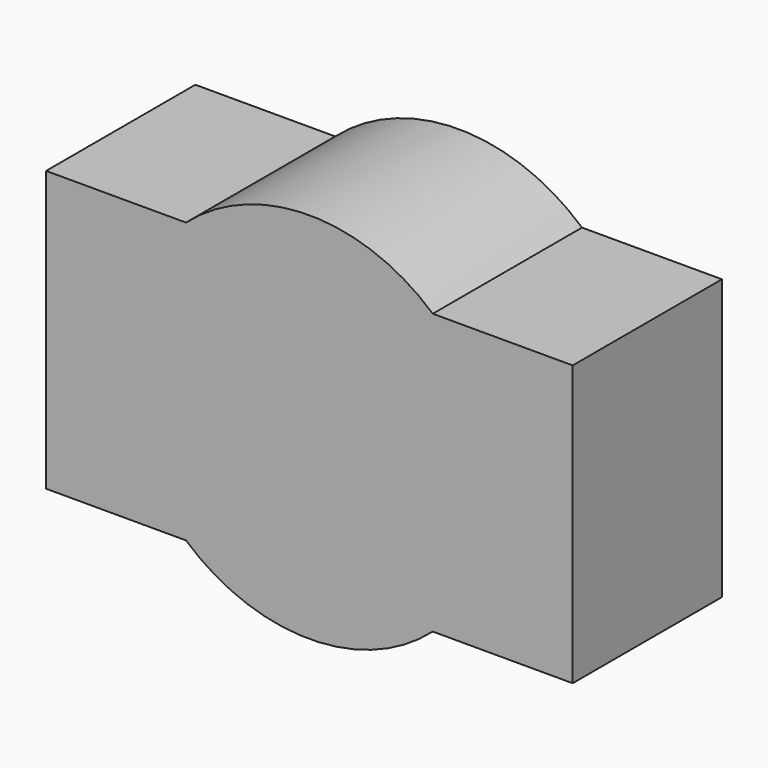
from build123d import *

# Parameters (mm, degrees)
F1_DEPTH = 12.7


with BuildPart() as f1:
    # F0 (on Front) → F1 (new body, symmetric)
    with BuildSketch(Plane.XZ):
        with BuildLine():
            Line((35.8505208253, -19.05), (35.8505208253, 19.05))
            Line((35.8505208253, 19.05), (16.8005208253, 19.05))
            ThreePointArc((16.8005208253, 19.05), (0, 25.4), (-16.8005208253, 19.05))
            Line((-16.8005208253, 19.05), (-35.8505208253, 19.05))
            Line((-35.8505208253, 19.05), (-35.8505208253, -19.05))
            Line((-35.8505208253, -19.05), (-16.8005208253, -19.05))
            ThreePointArc((-16.8005208253, -19.05), (0, -25.4), (16.8005208253, -19.05))
            Line((16.8005208253, -19.05), (35.8505208253, -19.05))
        make_face()
    extrude(amount=F1_DEPTH, both=True)


solid = f1.part
